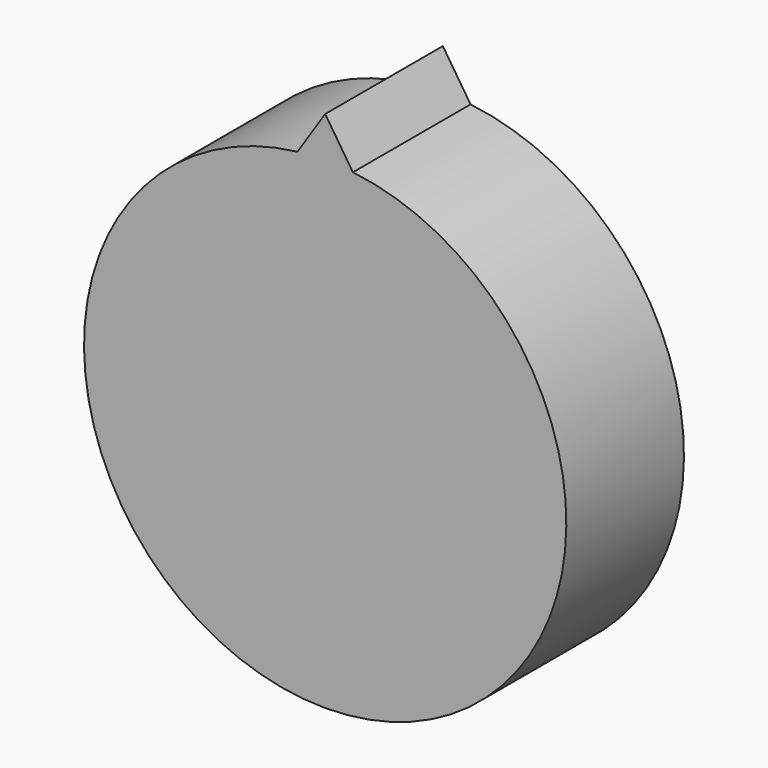
from build123d import *

# Parameters (mm, degrees)
F0_R     = 41.6520080901
F1_DEPTH = 12.7
F3_DEPTH = 25.4


with BuildPart() as f1:
    # F0 (on Front) → F1 (new body, symmetric)
    with BuildSketch(Plane.XZ):
        Circle(F0_R)
    extrude(amount=F1_DEPTH, both=True)

    # F2 (on face) → F3 (join, through all)
    with BuildSketch(Plane.XZ.offset(12.7)):
        with BuildLine():
            Line((0, 48.676032573), (-4.7952278257, 41.3750597345))
            ThreePointArc((-4.7952278257, 41.3750597345), (0, 41.6520080901), (4.7952278257, 41.3750597345))
            Line((4.7952278257, 41.3750597345), (0, 48.676032573))
        make_face()
    extrude(amount=-F3_DEPTH)


solid = f1.part
